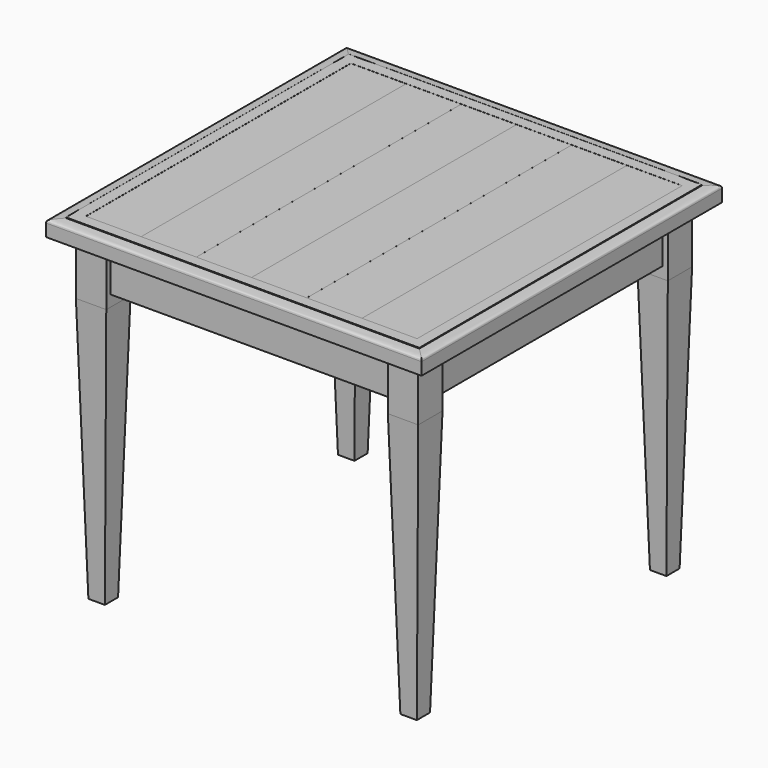
from build123d import *

# Parameters (mm, degrees)
F1_W      = 69.85
F1_H      = 69.85
F2_DEPTH  = 127
F3_COUNT  = 4
F4_W      = 127
F4_H      = 762
F5_DEPTH  = 38.1
F6_DEPTH  = 38.13175
F7_W      = 762
F7_H      = 762
F8_DEPTH  = 38.1
F11_W     = 762
F11_H     = 762
F11_W_2   = 723.9
F11_H_2   = 723.9
F12_DEPTH = 101.6
F13_W     = 69.85
F13_H     = 69.85
F14_DEPTH = 609.6
F14_TAPER = 1.5
F15_COUNT = 4


with BuildPart() as f2:
    # F1 (on Top) → F2 (new body)
    with BuildSketch(Plane.XY):
        with Locations((358.775, -358.775)):
            Rectangle(F1_W, F1_H)
    extrude(amount=-F2_DEPTH)


with BuildPart() as f3_1:
    # F3: instance of F2
    add(f2.part.rotate(Axis((0, 0, -435.0267350674), (0, 0, -1)), 1 * 360 / F3_COUNT))


with BuildPart() as f3_2:
    # F3: instance of F2
    add(f2.part.rotate(Axis((0, 0, -435.0267350674), (0, 0, -1)), 2 * 360 / F3_COUNT))


with BuildPart() as f3_3:
    # F3: instance of F2
    add(f2.part.rotate(Axis((0, 0, -435.0267350674), (0, 0, -1)), 3 * 360 / F3_COUNT))


with BuildPart() as f5:
    # F4 (on Top) → F5 (new body)
    with BuildSketch(Plane.XY):
        with Locations((-317.5, 0)):
            Rectangle(F4_W, F4_H)
    extrude(amount=F5_DEPTH)


with BuildPart() as f5b:
    # F4 (on Top) → F5, piece 2 (new body)
    with BuildSketch(Plane.XY):
        with Locations((-63.5, 0)):
            Rectangle(F4_W, F4_H)
    extrude(amount=F5_DEPTH)


with BuildPart() as f5c:
    # F4 (on Top) → F5, piece 3 (new body)
    with BuildSketch(Plane.XY):
        with Locations((190.5, 0)):
            Rectangle(F4_W, F4_H)
    extrude(amount=F5_DEPTH)


with BuildPart() as f6:
    # F4 (on Top) → F6 (new body)
    with BuildSketch(Plane.XY):
        with Locations((-190.5, 0)):
            Rectangle(F4_W, F4_H)
    extrude(amount=F6_DEPTH)


with BuildPart() as f6b:
    # F4 (on Top) → F6, piece 2 (new body)
    with BuildSketch(Plane.XY):
        with Locations((63.5, 0)):
            Rectangle(F4_W, F4_H)
    extrude(amount=F6_DEPTH)


with BuildPart() as f6c:
    # F4 (on Top) → F6, piece 3 (new body)
    with BuildSketch(Plane.XY):
        with Locations((317.5, 0)):
            Rectangle(F4_W, F4_H)
    extrude(amount=F6_DEPTH)


with BuildPart() as f8:
    # F7 (on Top) → F8 (new body)
    with BuildSketch(Plane.XY):
        Rectangle(F7_W, F7_H)
    extrude(amount=F8_DEPTH)


with BuildPart() as f10:
    # F10: sweep along a path in F10_path
    with BuildLine(Plane(origin=(381, -381, 0), x_dir=(0, 1, 0), z_dir=(0, 0, 1))) as f10_path:
        Line((0, 0), (0, 762))
        Line((0, 762), (762, 762))
        Line((762, 762), (762, 0))
        Line((762, 0), (0, 0))
    # F9 (on Right) → F10 (sweep)
    with BuildSketch(Plane.YZ):
        with BuildLine():
            Line((-431.8, 0.2248467302), (-381, 0.2248467302))
            Line((-381, 0.2248467302), (-381, 38.3248467302))
            Line((-381, 38.3248467302), (-406.4, 38.3248467302))
            Line((-406.4, 38.3248467302), (-406.4, 36.7373467302))
            add(Edge.make_bspline(
                [(-406.4, 36.7373467302), (-411.4454044185, 36.7373467302), (-427.0801015537, 35.9012899846), (-431.8, 33.2797079903), (-431.8, 28.7998467302)],
                knots=[0, 0, 0, 0, 0.6100824817, 1, 1, 1, 1], degree=3))
            Line((-431.8, 28.7998467302), (-431.8, 0.2248467302))
        make_face()
    sweep(path=f10_path.line, transition=Transition.RIGHT)


with BuildPart() as f12:
    # F11 (on Top) → F12 (new body)
    with BuildSketch(Plane.XY):
        Rectangle(F11_W, F11_H)
        Rectangle(F11_W_2, F11_H_2, mode=Mode.SUBTRACT)
    extrude(amount=-F12_DEPTH)


with BuildPart() as f2_1:
    add(f2.part)

    # F13 (on face) → F14 (join)
    with BuildSketch(Plane(origin=(0, 0, -127), x_dir=(1, 0, 0), z_dir=(0, 0, -1))):
        with Locations((358.775, 358.775)):
            Rectangle(F13_W, F13_H)
    extrude(amount=F14_DEPTH, taper=F14_TAPER)


with BuildPart() as f15_1:
    # F15: instance of F2
    add(f2_1.part.rotate(Axis((0, 0, -435.0267350674), (0, 0, -1)), 1 * 360 / F15_COUNT))


with BuildPart() as f15_2:
    # F15: instance of F2
    add(f2_1.part.rotate(Axis((0, 0, -435.0267350674), (0, 0, -1)), 2 * 360 / F15_COUNT))


with BuildPart() as f15_3:
    # F15: instance of F2
    add(f2_1.part.rotate(Axis((0, 0, -435.0267350674), (0, 0, -1)), 3 * 360 / F15_COUNT))


solid = Compound([f3_1.part, f3_2.part, f3_3.part, f5.part, f5b.part, f5c.part, f6.part, f6b.part, f6c.part, f8.part, f10.part, f12.part, f2_1.part, f15_1.part, f15_2.part, f15_3.part])
